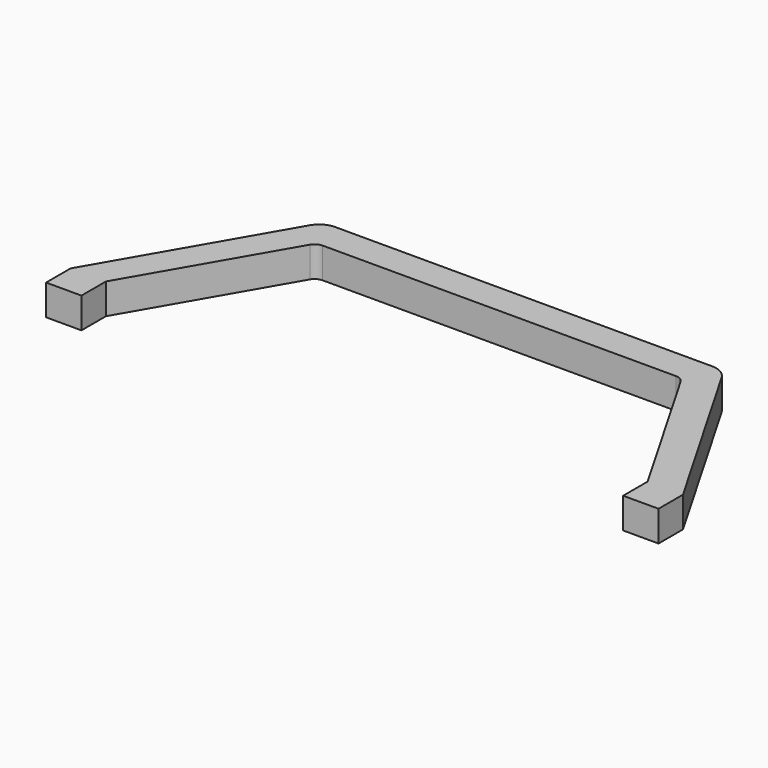
from build123d import *

# Parameters (mm, degrees)
F0_W     = 43.994091
F0_H     = 38.1
F0_W_2   = 43.99409
F1_DEPTH = 38.1


with BuildPart() as f1:
    # F0 (on Top) → F1 (new body)
    with BuildSketch(Plane.XY):
        with BuildLine():
            Line((-245.130175, 141.188259), (-369.780099, -74.711741))
            Line((-369.780099, -74.711741), (-325.786008, -74.711741))
            Line((-325.786008, -74.711741), (-219.466956, 109.438259))
            ThreePointArc((-219.466956, 109.438259), (-214.818433, 114.086782), (-208.468433, 115.788259))
            Line((-208.468433, 115.788259), (230.908236, 115.788259))
            ThreePointArc((230.908236, 115.788259), (237.258236, 114.086782), (241.906759, 109.438259))
            Line((241.906759, 109.438259), (348.225811, -74.711741))
            Line((348.225811, -74.711741), (392.219901, -74.711741))
            Line((392.219901, -74.711741), (267.569978, 141.188259))
            ThreePointArc((267.569978, 141.188259), (258.272933, 150.485305), (245.572933, 153.888259))
            Line((245.572933, 153.888259), (-223.13313, 153.888259))
            ThreePointArc((-223.13313, 153.888259), (-235.83313, 150.485305), (-245.130175, 141.188259))
        make_face()
        with Locations((-347.783053, -93.761741)):
            Rectangle(F0_W, F0_H)
        with Locations((370.222856, -93.761741)):
            Rectangle(F0_W_2, F0_H)
    extrude(amount=F1_DEPTH)


solid = f1.part
